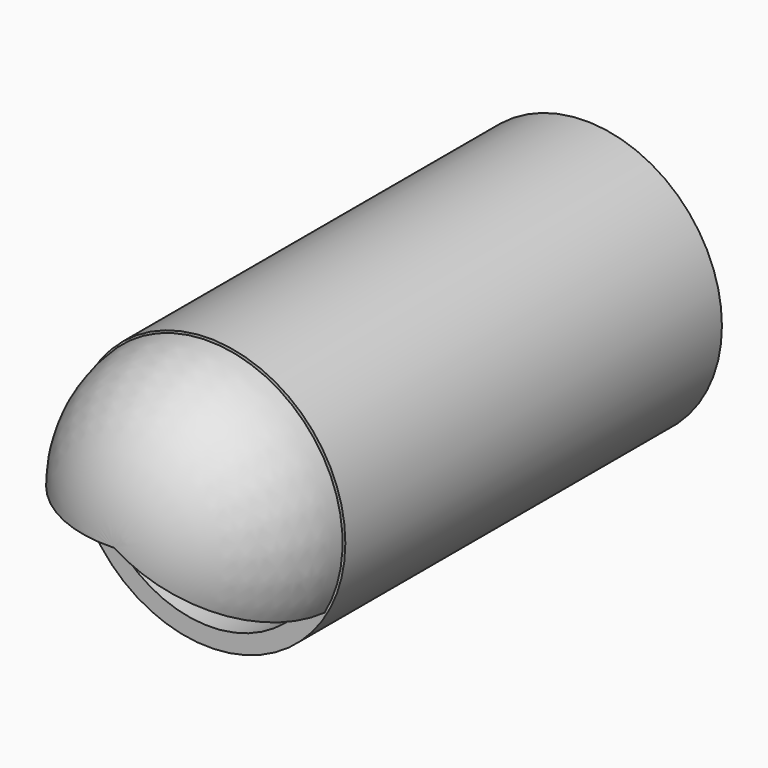
from build123d import *

# Parameters (mm, degrees)
F0_R          = 15.9
F0_R_2        = 13.75
F1_DEPTH      = 55
F3_ANGLE_BACK = 30
F3_ANGLE      = 210


with BuildPart() as f1:
    # F0 (on Front) → F1 (new body)
    with BuildSketch(Plane.XZ):
        Circle(F0_R)
        Circle(F0_R_2, mode=Mode.SUBTRACT)
    extrude(amount=F1_DEPTH)


with BuildPart() as f3:
    # F2 (on Top) → F3 (revolve)
    with BuildSketch(Plane.XY, mode=Mode.PRIVATE) as f3_sk:
        with BuildLine():
            Line((0, -67.4084052444), (0, -68.9220428467))
            ThreePointArc((0, -68.9220428467), (10.6154327742, -65.1901410579), (15.6990513206, -55.1516488194))
            Line((15.6990513206, -55.1516488194), (13.7805789709, -55.116225034))
            ThreePointArc((13.7805789709, -55.116225034), (9.4310349191, -64.1107067584), (0, -67.4084052444))
        make_face()
    revolve(f3_sk.sketch.rotate(Axis((0, -68.1652240455, 0), (0, -1, 0)), -F3_ANGLE_BACK), axis=Axis((0, -68.1652240455, 0), (0, -1, 0)), revolution_arc=F3_ANGLE)


solid = Compound([f1.part, f3.part])
